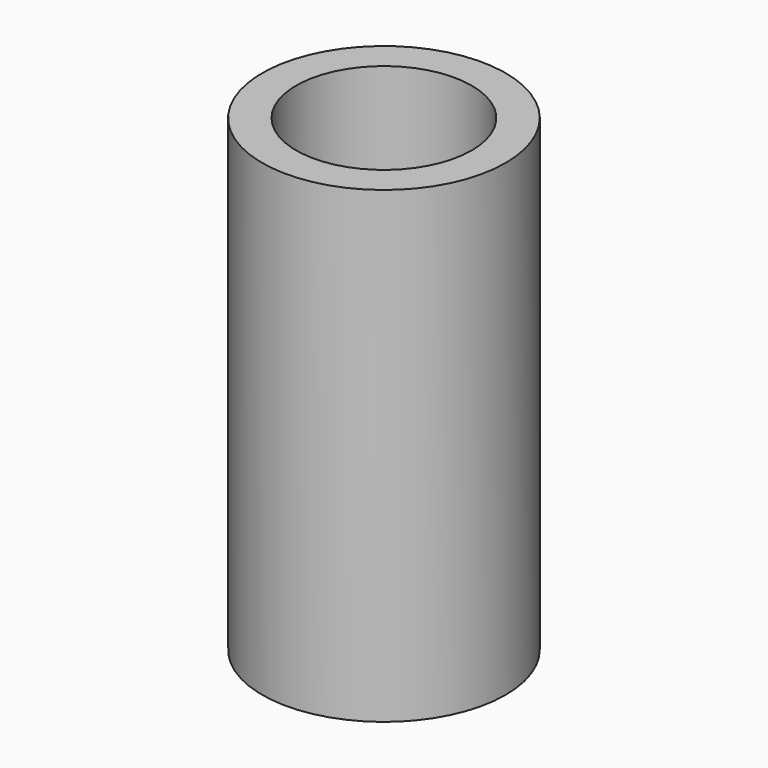
from build123d import *

# Parameters (mm, degrees)
F0_R     = 19.804383
F0_R_2   = 17.4625
F0_R_3   = 14.2875
F1_DEPTH = 76.2


with BuildPart() as f1:
    # F0 (on Top) → F1 (new body)
    with BuildSketch(Plane.XY):
        Circle(F0_R)
        Circle(F0_R_2, mode=Mode.SUBTRACT)
        Circle(F0_R_2)
        Circle(F0_R_3, mode=Mode.SUBTRACT)
    extrude(amount=F1_DEPTH)


solid = f1.part
